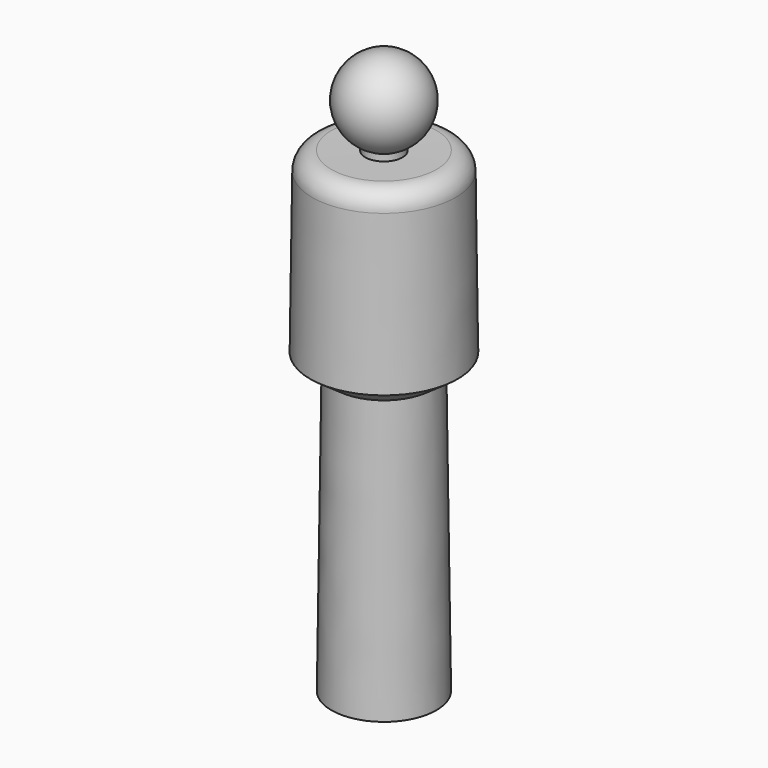
from build123d import *


with BuildPart() as f1:
    # F0 (on Front) → F1 (revolve)
    with BuildSketch(Plane.XZ):
        with BuildLine():
            Line((-170.656085, -914.4), (0, -914.4))
            Line((0, -914.4), (0, 914.4))
            ThreePointArc((0, 914.4), (-133.642487, 808.103429), (-60.143852, 653.969636))
            Line((-60.143852, 653.969636), (-60.418386, 632.761954))
            Line((-60.418386, 632.761954), (-171.262137, 634.196832))
            ThreePointArc((-171.262137, 634.196832), (-214.594867, 616.90151), (-233.006095, 574.031004))
            Line((-233.006095, 574.031004), (-239.706635, 56.417))
            Line((-239.706635, 56.417), (-158.82012, -0.076605))
            Line((-158.82012, -0.076605), (-170.656085, -914.4))
        make_face()
    revolve(axis=Axis((0, 0, 0), (0, 0, -1)))


solid = f1.part
